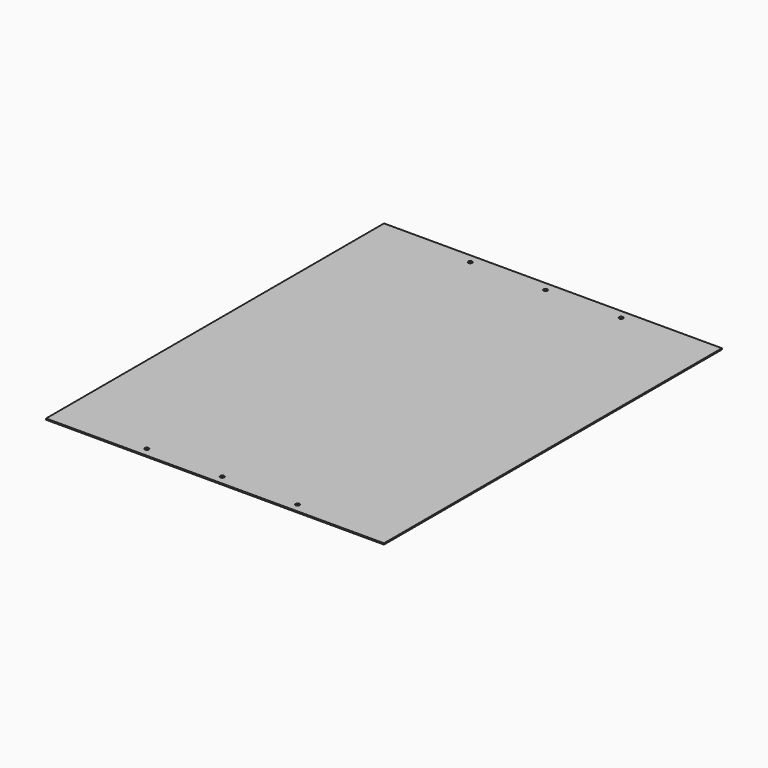
from build123d import *

# Parameters (mm, degrees)
F0_W     = 560
F0_H     = 700
F1_DEPTH = 2
F3_D     = 6.6


with BuildPart() as f1:
    # F0 (on Top) → F1 (new body)
    with BuildSketch(Plane.XY):
        Rectangle(F0_W, F0_H)
    extrude(amount=F1_DEPTH)

    # F3 (through all)
    with Locations(Plane.XY.offset(2)):
        with Locations((-125, 335), (0, 335), (125, 335), (125, -335), (0, -335), (-125, -335)):
            Hole(F3_D / 2)


solid = f1.part
